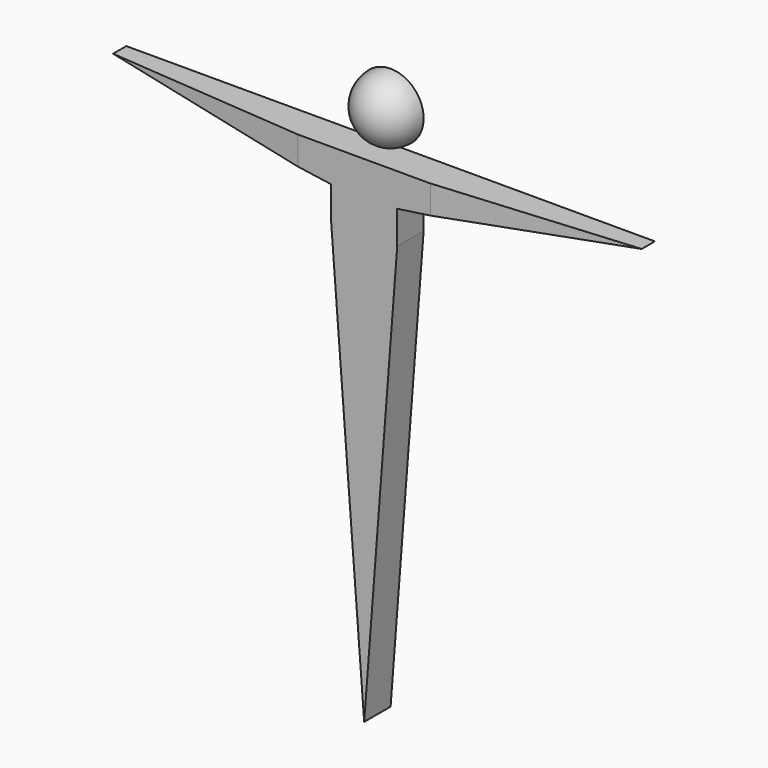
from build123d import *

# Parameters (mm, degrees)
F1_DEPTH = 9.525
F2_ANGLE = -180
F4_DEPTH = 142.876


with BuildPart() as f1:
    # F0 (on Front) → F1 (new body)
    with BuildSketch(Plane.XZ):
        Polygon((-9.525, -9.525), (-9.525, -19.05), (0, -19.05), (9.525, -19.05), (9.525, -9.525), (9.525, 0), (0, 0), (-9.525, 0), align=None)
        Polygon((-76.2, 0), (-9.525, -9.525), (-9.525, 0), align=None)
        Polygon((9.525, 0), (9.525, -9.525), (76.2, 0), align=None)
        Polygon((0, -19.05), (-9.525, -19.05), (0, -142.875), align=None)
        Polygon((9.525, -19.05), (0, -19.05), (0, -142.875), align=None)
    extrude(amount=F1_DEPTH)

    # F3 (on face) → F4 (cut, through all)
    with BuildSketch(Plane.XY):
        Polygon((-76.2, -4.7625), (-76.2, -9.525), (-19.05, -9.525), align=None)
        Polygon((76.2, -4.7625), (19.05, -9.525), (76.2, -9.525), align=None)
    extrude(amount=-F4_DEPTH, mode=Mode.SUBTRACT)


with BuildPart() as f2:
    # F0 (on Front) → F2 (revolve)
    with BuildSketch(Plane.XZ):
        with BuildLine():
            ThreePointArc((0, 19.05), (-9.525, 9.525), (0, 0))
            Line((0, 0), (0, 19.05))
        make_face()
    revolve(axis=Axis((0, 0, -17.554175), (0, 0, -1)), revolution_arc=F2_ANGLE)


solid = Compound([f1.part, f2.part])
